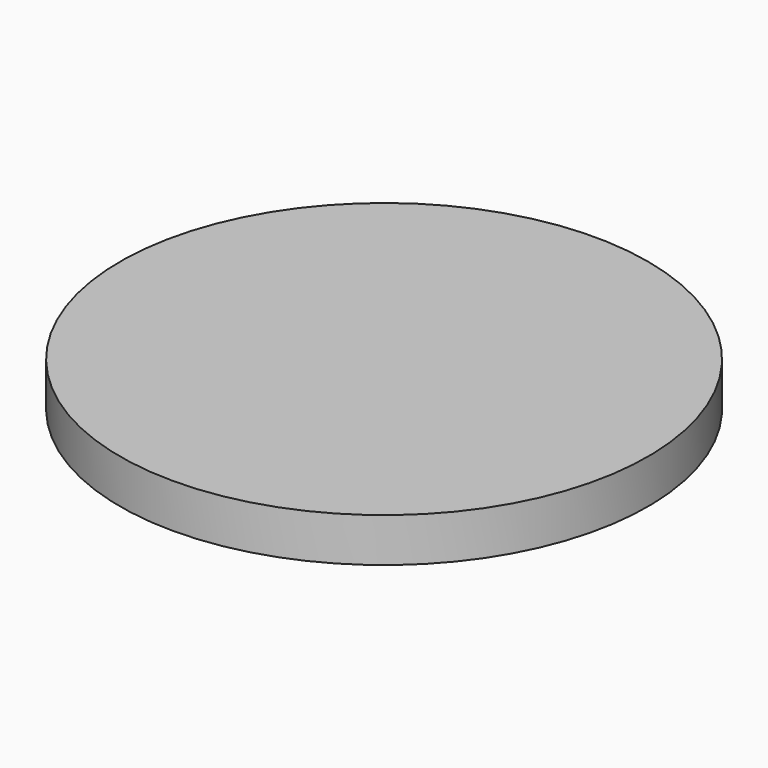
from build123d import *


with BuildPart() as f1:
    # F0 (on Right) → F1 (revolve)
    with BuildSketch(Plane.YZ):
        Polygon((-12, 6.343672), (-10, 6.343672), (0, 6.343672), (0, 8.343672), (-12, 8.343672), align=None)
    revolve(axis=Axis((0, 0, 7.343672), (0, 0, 1)))


solid = f1.part
